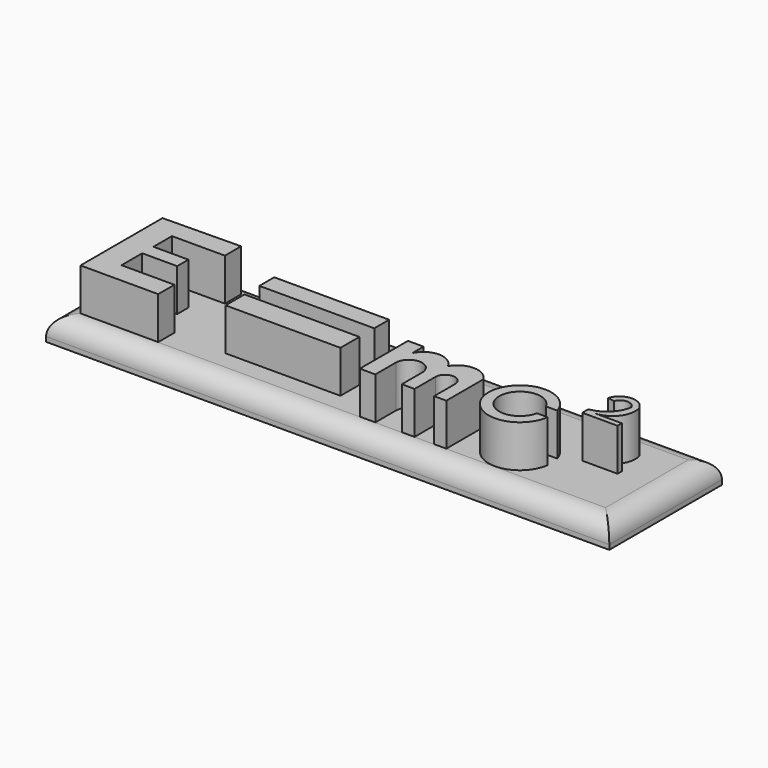
from build123d import *

# Parameters (mm, degrees)
F0_W      = 152.4
F0_H      = 38.1
F1_DEPTH  = 6.35
F2_R      = 5.08
F4_DEPTH  = 11.43
F5_W      = 31.0896
F5_H      = 5.0292
F5_H_2    = 6.400801
F6_DEPTH  = 11.43
F8_DEPTH  = 11.43
F10_DEPTH = 11.43
F12_DEPTH = 11.43


with BuildPart() as f1:
    # F0 (on Top) → F1 (new body)
    with BuildSketch(Plane.XY):
        with Locations((-0.578179, -2.4384)):
            Rectangle(F0_W, F0_H)
    extrude(amount=F1_DEPTH)

    # F2
    f2_edges = [f1.edges().sort_by_distance(p)[0] for p in [
        (-0.578179, 16.6116, 6.35),
        (-76.778179, -2.4384, 6.35),
        (-0.578179, -21.4884, 6.35),
        (75.621821, -2.4384, 6.35),
    ]]
    fillet(f2_edges, radius=F2_R)

    # F3 (on face) → F4 (join)
    with BuildSketch(Plane.XY.offset(6.35)):
        Polygon((-50.58109, 11.734799), (-71.612291, 11.430001), (-71.612291, -16.306801), (-50.58109, -16.306801), (-50.58109, -10.8204), (-64.906694, -10.8204), (-64.906694, -3.81), (-55.45789, -3.81), (-55.45789, 0), (-64.906694, 0), (-64.906694, 6.2484), (-50.58109, 6.2484), align=None)
    extrude(amount=F4_DEPTH)

    # F5 (on face) → F6 (join)
    with BuildSketch(Plane.XY.offset(6.35)):
        with Locations((-20.71069, 2.5146)):
            Rectangle(F5_W, F5_H)
        with Locations((-20.71069, -8.229601)):
            Rectangle(F5_W, F5_H_2)
    extrude(amount=F6_DEPTH)

    # F7 (on face) → F8 (join)
    with BuildSketch(Plane.XY.offset(6.35)):
        with BuildLine():
            Line((3.987037, -0.034714), (3.987037, -16.323045))
            Line((3.987037, -16.323045), (8.195101, -16.323045))
            Line((8.195101, -16.323045), (8.195101, -9.309177))
            ThreePointArc((8.195101, -9.309177), (11.782139, -5.880751), (15.369177, -9.309177))
            Line((15.369177, -9.309177), (15.369177, -16.338116))
            Line((15.369177, -16.338116), (18.81415, -16.338116))
            Line((18.81415, -16.338116), (18.81415, -9.309177))
            ThreePointArc((18.81415, -9.309177), (21.455294, -6.668033), (24.096439, -9.309177))
            Line((24.096439, -9.309177), (24.096439, -16.345294))
            Line((24.096439, -16.345294), (27.413206, -16.345294))
            Line((27.413206, -16.345294), (27.413206, -3.832139))
            ThreePointArc((27.413206, -3.832139), (22.598146, -1.020168), (17.783085, -3.832139))
            ThreePointArc((17.783085, -3.832139), (12.989093, -0.790731), (8.195101, -3.832139))
            Line((8.195101, -3.832139), (8.195101, -0.034714))
            Line((8.195101, -0.034714), (3.987037, -0.034714))
        make_face()
    extrude(amount=F8_DEPTH)

    # F9 (on face) → F10 (join)
    with BuildSketch(Plane.XY.offset(6.35)):
        with BuildLine():
            Line((45.470758, -5.2382), (48.550447, -5.2382))
            ThreePointArc((48.550447, -5.2382), (32.01016, -8.446661), (48.853159, -8.881086))
            Line((48.853159, -8.881086), (45.94597, -8.881086))
            ThreePointArc((45.94597, -8.881086), (34.895535, -8.47017), (45.470758, -5.2382))
        make_face()
    extrude(amount=F10_DEPTH)

    # F11 (on face) → F12 (join)
    with BuildSketch(Plane.XY.offset(6.35)):
        with BuildLine():
            ThreePointArc((55.785455, -1.235234), (60.317074, 1.178317), (61.454367, 6.185049))
            ThreePointArc((61.454367, 6.185049), (57.275841, 8.987166), (53.296663, 5.908517))
            Line((53.296663, 5.908517), (55.232391, 5.678073))
            ThreePointArc((55.232391, 5.678073), (57.536826, 7.236442), (59.84126, 5.678073))
            ThreePointArc((59.84126, 5.678073), (57.618597, 1.433053), (53.296663, -0.63608))
            Line((53.296663, -0.63608), (53.296663, -2.710072))
            Line((53.296663, -2.710072), (62.837027, -2.710072))
            Line((62.837027, -2.710072), (62.837027, -1.235234))
            Line((62.837027, -1.235234), (55.785455, -1.235234))
        make_face()
    extrude(amount=F12_DEPTH)


solid = f1.part
